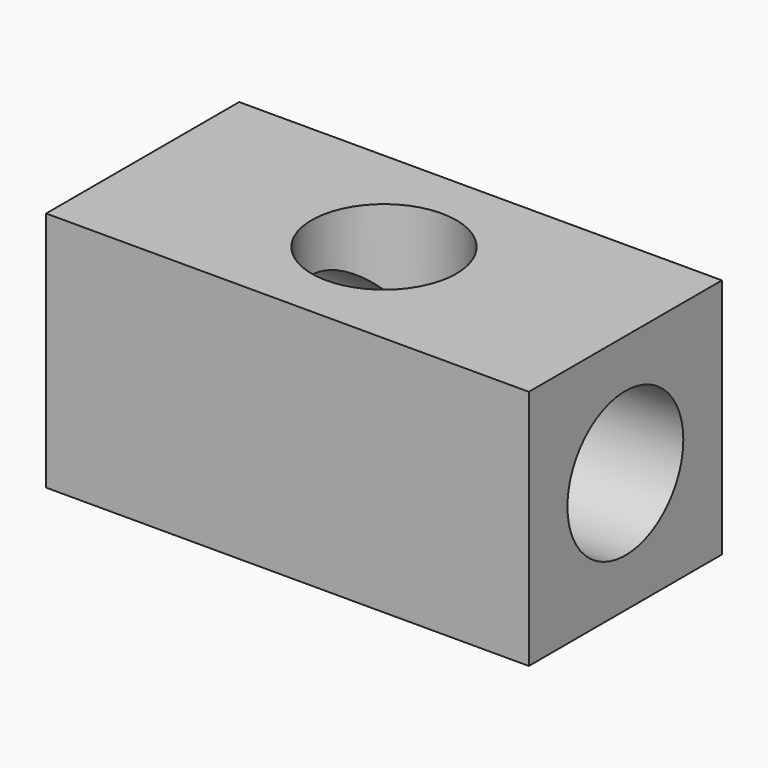
from build123d import *

# Parameters (mm, degrees)
F0_W     = 200
F0_H     = 100
F1_DEPTH = 100
F2_R     = 30
F3_DEPTH = 100
F4_R     = 30
F5_DEPTH = 200.001


with BuildPart() as f1:
    # F0 (on Top) → F1 (new body)
    with BuildSketch(Plane.XY):
        Rectangle(F0_W, F0_H)
    extrude(amount=F1_DEPTH)

    # F2 (on face) → F3 (cut, through all)
    with BuildSketch(Plane.XY.offset(100)):
        Circle(F2_R)
    extrude(amount=-F3_DEPTH, mode=Mode.SUBTRACT)

    # F4 (on face) → F5 (cut, through all)
    with BuildSketch(Plane.YZ.offset(100)):
        with Locations((0, 50)):
            Circle(F4_R)
    extrude(amount=-F5_DEPTH, mode=Mode.SUBTRACT)


solid = f1.part
